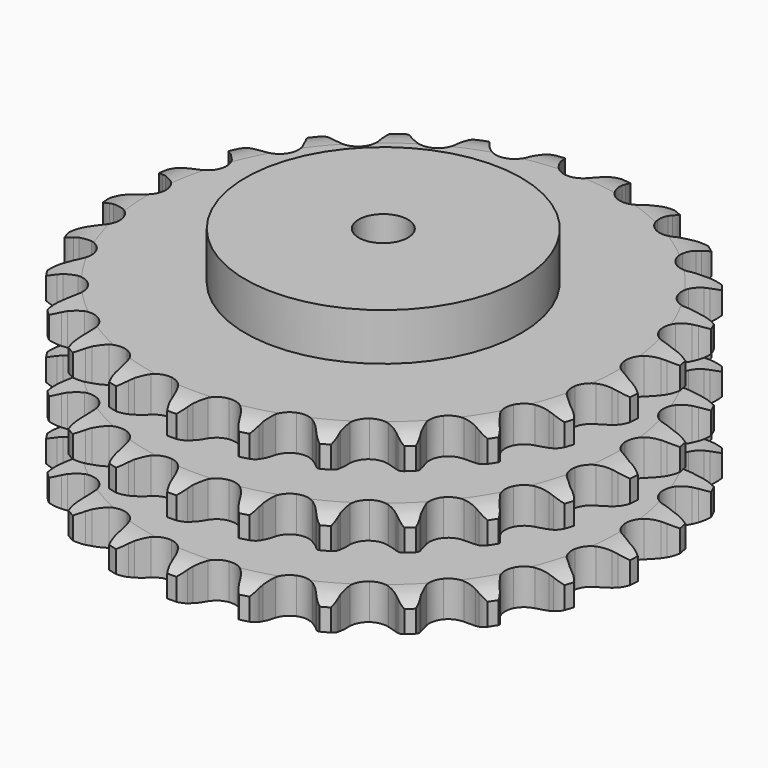
from build123d import *

# Parameters (mm, degrees)
PAD_DEPTH         = 91
SKETCH001_R       = 70
PAD001_DEPTH      = 115
SKETCH002_R       = 12.5
POCKET_DEPTH      = 0.001
POCKET_DEPTH_BACK = 115.001


with BuildPart() as part:
    # Sprocket → Pad (new body)
    with BuildSketch(Plane.XY):
        with BuildLine():
            ThreePointArc((-17.1689, 135.905841), (-14.065751, 132.865377), (-11.918442, 129.088735))
            Line((-11.918442, 129.088735), (-10.992349, 126.754452))
            ThreePointArc((-10.992349, 126.754452), (-9.517818, 123.674111), (-7.6349, 120.825013))
            ThreePointArc((-7.6349, 120.825013), (-4.258235, 118.04645), (0, 117.05161))
            ThreePointArc((0, 117.05161), (4.258235, 118.04645), (7.6349, 120.825013))
            ThreePointArc((7.6349, 120.825013), (9.517818, 123.674111), (10.992349, 126.754452))
            Line((10.992349, 126.754452), (11.918442, 129.088735))
            ThreePointArc((11.918442, 129.088735), (14.065751, 132.865377), (17.1689, 135.905841))
            ThreePointArc((17.1689, 135.905841), (19.418426, 132.189177), (20.55906, 127.997171))
            Line((20.55906, 127.997171), (20.875547, 125.505914))
            ThreePointArc((20.875547, 125.505914), (21.537702, 122.155647), (22.652923, 118.927795))
            ThreePointArc((22.652923, 118.927795), (25.232503, 115.396784), (29.109552, 113.374218))
            ThreePointArc((29.109552, 113.374218), (33.481413, 113.278824), (37.442995, 115.13035))
            Line((37.442995, 115.13035), (42.169554, 120.038542))
            ThreePointArc((42.169554, 120.038542), (42.882643, 121.072536), (43.647065, 122.069179))
            ThreePointArc((43.647065, 122.069179), (46.666125, 125.193157), (50.427916, 127.366377))
            ThreePointArc((50.427916, 127.366377), (51.682472, 123.207044), (51.744762, 118.863074))
            Line((51.744762, 118.863074), (51.431754, 116.371377))
            ThreePointArc((51.431754, 116.371377), (51.23993, 112.961694), (51.51738, 109.557907))
            ThreePointArc((51.51738, 109.557907), (53.137791, 105.496314), (56.390043, 102.573108))
            ThreePointArc((56.390043, 102.573108), (60.600831, 101.393472), (64.898408, 102.201624))
            Line((64.898408, 102.201624), (70.697092, 105.780169))
            ThreePointArc((70.697092, 105.780169), (71.644921, 106.60434), (72.633183, 107.379567))
            ThreePointArc((72.633183, 107.379567), (76.334295, 109.65459), (80.51836, 110.824015))
            ThreePointArc((80.51836, 110.824015), (80.699118, 106.48336), (79.679149, 102.260373))
            Line((79.679149, 102.260373), (78.756316, 99.924799))
            ThreePointArc((78.756316, 99.924799), (77.722564, 96.669942), (77.14481, 93.304093))
            ThreePointArc((77.14481, 93.304093), (77.704236, 88.967122), (80.127341, 85.326951))
            ThreePointArc((80.127341, 85.326951), (83.912476, 83.137196), (88.276016, 82.851195))
            Line((88.276016, 82.851195), (94.782471, 84.875238))
            ThreePointArc((94.782471, 84.875238), (95.905485, 85.437801), (97.05549, 85.942903))
            ThreePointArc((97.05549, 85.942903), (101.2061, 87.226022), (105.54954, 87.318173))
            ThreePointArc((105.54954, 87.318173), (104.645142, 83.068935), (102.607003, 79.232277))
            Line((102.607003, 79.232277), (101.132329, 77.199579))
            ThreePointArc((101.132329, 77.199579), (99.321603, 74.304062), (97.924948, 71.187639))
            ThreePointArc((97.924948, 71.187639), (97.388238, 66.847798), (98.829943, 62.719389))
            ThreePointArc((98.829943, 62.719389), (101.951591, 59.657104), (106.106917, 58.29492))
            Line((106.106917, 58.29492), (112.912319, 58.637285))
            ThreePointArc((112.912319, 58.637285), (114.139955, 58.902891), (115.379444, 59.106129))
            ThreePointArc((115.379444, 59.106129), (119.718754, 59.316723), (123.948653, 58.325809))
            ThreePointArc((123.948653, 58.325809), (122.015926, 54.434983), (119.087681, 51.225725))
            Line((119.087681, 51.225725), (117.153825, 49.623625))
            ThreePointArc((117.153825, 49.623625), (114.679902, 47.269385), (112.552102, 44.598204))
            ThreePointArc((112.552102, 44.598204), (110.952979, 40.528182), (111.322696, 36.170937))
            ThreePointArc((111.322696, 36.170937), (113.584713, 32.428537), (117.27073, 30.07576))
            Line((117.27073, 30.07576), (123.94747, 28.714935))
            ThreePointArc((123.94747, 28.714935), (125.202592, 28.666896), (126.453684, 28.555501))
            ThreePointArc((126.453684, 28.555501), (130.709038, 27.680335), (134.559617, 25.66862))
            ThreePointArc((134.559617, 25.66862), (131.720001, 22.380681), (128.085642, 20.000473))
            Line((128.085642, 20.000473), (125.814116, 18.929636))
            ThreePointArc((125.814116, 18.929636), (122.83244, 17.264599), (120.107193, 15.2065))
            ThreePointArc((120.107193, 15.2065), (117.546136, 11.662031), (116.820635, 7.349731))
            ThreePointArc((116.820635, 7.349731), (118.080889, 3.162365), (121.065992, -0.033169))
            Line((121.065992, -0.033169), (127.194546, -3.01168))
            ThreePointArc((127.194546, -3.01168), (128.39829, -3.370346), (129.582373, -3.789375))
            ThreePointArc((129.582373, -3.789375), (133.486393, -5.695309), (136.715706, -8.601423))
            ThreePointArc((136.715706, -8.601423), (133.147624, -11.079881), (129.035512, -12.481483))
            Line((129.035512, -12.481483), (126.569043, -12.953772))
            ThreePointArc((126.569043, -12.953772), (123.266964, -13.824986), (120.115507, -15.140684))
            ThreePointArc((120.115507, -15.140684), (116.753437, -17.936889), (114.978304, -21.933285))
            ThreePointArc((114.978304, -21.933285), (115.157609, -26.302509), (117.254232, -30.140015))
            Line((117.254232, -30.140015), (122.449522, -34.54906))
            ThreePointArc((122.449522, -34.54906), (123.52625, -35.195816), (124.568925, -35.896151))
            ThreePointArc((124.568925, -35.896151), (127.876307, -38.713097), (130.281444, -42.331007))
            ThreePointArc((130.281444, -42.331007), (126.209093, -43.844254), (121.877605, -44.179181))
            Line((121.877605, -44.179181), (119.371172, -44.023246))
            ThreePointArc((119.371172, -44.023246), (115.956171, -44.045896), (112.576523, -44.536524))
            ThreePointArc((112.576523, -44.536524), (108.62469, -46.408767), (105.911463, -49.838152))
            ThreePointArc((105.911463, -49.838152), (104.998553, -54.114701), (106.074958, -58.353053))
            Line((106.074958, -58.353053), (110.010543, -63.915595))
            ThreePointArc((110.010543, -63.915595), (110.892602, -64.809804), (111.728353, -65.747439))
            ThreePointArc((111.728353, -65.747439), (114.231282, -69.298398), (115.661119, -73.400778))
            ThreePointArc((115.661119, -73.400778), (111.340379, -73.853731), (107.061681, -73.100939))
            Line((107.061681, -73.100939), (104.672771, -72.326578))
            ThreePointArc((104.672771, -72.326578), (101.359426, -71.49924), (97.963941, -71.13397))
            ThreePointArc((97.963941, -71.13397), (93.670655, -71.964613), (90.189815, -74.611504))
            ThreePointArc((90.189815, -74.611504), (88.242052, -78.526666), (88.230604, -82.899554))
            Line((88.230604, -82.899554), (90.659197, -89.266079))
            ThreePointArc((90.659197, -89.266079), (91.291165, -90.351554), (91.867479, -91.467574))
            ThreePointArc((91.867479, -91.467574), (93.408685, -95.529426), (93.773381, -99.858508))
            ThreePointArc((93.773381, -99.858508), (89.47574, -99.222707), (85.518677, -97.429496))
            Line((85.518677, -97.429496), (83.397395, -96.085365))
            ThreePointArc((83.397395, -96.085365), (80.393895, -94.460024), (77.195925, -93.261807))
            ThreePointArc((77.195925, -93.261807), (72.830947, -92.998656), (68.80121, -94.696742))
            ThreePointArc((68.80121, -94.696742), (65.940978, -98.004512), (64.842396, -102.237171))
            Line((64.842396, -102.237171), (65.611401, -109.007646))
            ThreePointArc((65.611401, -109.007646), (65.953567, -110.216183), (66.234232, -111.440465))
            ThreePointArc((66.234232, -111.440465), (66.716877, -115.757989), (65.993517, -120.041761))
            ThreePointArc((65.993517, -120.041761), (61.989012, -118.357155), (58.60222, -115.636199))
            Line((58.60222, -115.636199), (56.881853, -113.806756))
            ThreePointArc((56.881853, -113.806756), (54.376921, -111.485538), (51.577405, -109.529661))
            ThreePointArc((51.577405, -109.529661), (47.415004, -108.189253), (43.089572, -108.831834))
            ThreePointArc((43.089572, -108.831834), (39.49659, -111.324375), (37.379903, -115.15085))
            Line((37.379903, -115.15085), (36.440999, -121.899862))
            ThreePointArc((36.440999, -121.899862), (36.471864, -123.155524), (36.439245, -124.411141))
            ThreePointArc((36.439245, -124.411141), (35.833003, -128.713051), (34.067037, -132.682349))
            ThreePointArc((34.067037, -132.682349), (30.607286, -130.054787), (28.00357, -126.577055))
            Line((28.00357, -126.577055), (26.792216, -124.377249))
            ThreePointArc((26.792216, -124.377249), (24.943244, -121.506005), (22.718087, -118.915365))
            ThreePointArc((22.718087, -118.915365), (19.019801, -116.58192), (14.670457, -116.128623))
            ThreePointArc((14.670457, -116.128623), (10.570485, -117.649317), (7.568693, -120.829178))
            Line((7.568693, -120.829178), (4.980875, -127.132662))
            ThreePointArc((4.980875, -127.132662), (4.6985, -128.356551), (4.354647, -129.564608))
            ThreePointArc((4.354647, -129.564608), (2.697609, -133.5806), (0, -136.986016))
            ThreePointArc((0, -136.986016), (-2.697609, -133.5806), (-4.354647, -129.564608))
            Line((-4.354647, -129.564608), (-4.980875, -127.132662))
            ThreePointArc((-4.980875, -127.132662), (-6.057709, -123.891803), (-7.568693, -120.829178))
            ThreePointArc((-7.568693, -120.829178), (-10.570485, -117.649317), (-14.670457, -116.128623))
            ThreePointArc((-14.670457, -116.128623), (-19.019801, -116.58192), (-22.718087, -118.915365))
            Line((-22.718087, -118.915365), (-26.792216, -124.377249))
            ThreePointArc((-26.792216, -124.377249), (-27.370088, -125.492463), (-28.00357, -126.577055))
            ThreePointArc((-28.00357, -126.577055), (-30.607286, -130.054787), (-34.067037, -132.682349))
            ThreePointArc((-34.067037, -132.682349), (-35.833003, -128.713051), (-36.439245, -124.411141))
            Line((-36.439245, -124.411141), (-36.440999, -121.899862))
            ThreePointArc((-36.440999, -121.899862), (-36.678033, -118.493023), (-37.379903, -115.15085))
            ThreePointArc((-37.379903, -115.15085), (-39.49659, -111.324375), (-43.089572, -108.831834))
            ThreePointArc((-43.089572, -108.831834), (-47.415004, -108.189253), (-51.577405, -109.529661))
            Line((-51.577405, -109.529661), (-56.881853, -113.806756))
            ThreePointArc((-56.881853, -113.806756), (-57.718913, -114.743223), (-58.60222, -115.636199))
            ThreePointArc((-58.60222, -115.636199), (-61.989012, -118.357155), (-65.993517, -120.041761))
            ThreePointArc((-65.993517, -120.041761), (-66.716877, -115.757989), (-66.234232, -111.440465))
            Line((-66.234232, -111.440465), (-65.611401, -109.007646))
            ThreePointArc((-65.611401, -109.007646), (-64.993742, -105.648891), (-64.842396, -102.237171))
            ThreePointArc((-64.842396, -102.237171), (-65.940978, -98.004512), (-68.80121, -94.696742))
            ThreePointArc((-68.80121, -94.696742), (-72.830947, -92.998656), (-77.195925, -93.261807))
            Line((-77.195925, -93.261807), (-83.397395, -96.085365))
            ThreePointArc((-83.397395, -96.085365), (-84.441046, -96.784243), (-85.518677, -97.429496))
            ThreePointArc((-85.518677, -97.429496), (-89.47574, -99.222707), (-93.773381, -99.858508))
            ThreePointArc((-93.773381, -99.858508), (-93.408685, -95.529426), (-91.867479, -91.467574))
            Line((-91.867479, -91.467574), (-90.659197, -89.266079))
            ThreePointArc((-90.659197, -89.266079), (-89.225655, -86.16645), (-88.230604, -82.899554))
            ThreePointArc((-88.230604, -82.899554), (-88.242052, -78.526666), (-90.189815, -74.611504))
            ThreePointArc((-90.189815, -74.611504), (-93.670655, -71.964613), (-97.963941, -71.13397))
            Line((-97.963941, -71.13397), (-104.672771, -72.326578))
            ThreePointArc((-104.672771, -72.326578), (-105.857438, -72.743954), (-107.061681, -73.100939))
            ThreePointArc((-107.061681, -73.100939), (-111.340379, -73.853731), (-115.661119, -73.400778))
            ThreePointArc((-115.661119, -73.400778), (-114.231282, -69.298398), (-111.728353, -65.747439))
            Line((-111.728353, -65.747439), (-110.010543, -63.915595))
            ThreePointArc((-110.010543, -63.915595), (-107.851191, -61.269855), (-106.074958, -58.353053))
            ThreePointArc((-106.074958, -58.353053), (-104.998553, -54.114701), (-105.911463, -49.838152))
            ThreePointArc((-105.911463, -49.838152), (-108.62469, -46.408767), (-112.576523, -44.536524))
            Line((-112.576523, -44.536524), (-119.371172, -44.023246))
            ThreePointArc((-119.371172, -44.023246), (-120.622417, -44.132895), (-121.877605, -44.179181))
            ThreePointArc((-121.877605, -44.179181), (-126.209093, -43.844254), (-130.281444, -42.331007))
            ThreePointArc((-130.281444, -42.331007), (-127.876307, -38.713097), (-124.568925, -35.896151))
            Line((-124.568925, -35.896151), (-122.449522, -34.54906))
            ThreePointArc((-122.449522, -34.54906), (-119.700041, -32.523449), (-117.254232, -30.140015))
            ThreePointArc((-117.254232, -30.140015), (-115.157609, -26.302509), (-114.978304, -21.933285))
            ThreePointArc((-114.978304, -21.933285), (-116.753437, -17.936889), (-120.115507, -15.140684))
            Line((-120.115507, -15.140684), (-126.569043, -12.953772))
            ThreePointArc((-126.569043, -12.953772), (-127.808247, -12.748803), (-129.035512, -12.481483))
            ThreePointArc((-129.035512, -12.481483), (-133.147624, -11.079881), (-136.715706, -8.601423))
            ThreePointArc((-136.715706, -8.601423), (-133.486393, -5.695309), (-129.582373, -3.789375))
            Line((-129.582373, -3.789375), (-127.194546, -3.01168))
            ThreePointArc((-127.194546, -3.01168), (-124.027697, -1.733475), (-121.065992, -0.033169))
            ThreePointArc((-121.065992, -0.033169), (-118.080889, 3.162365), (-116.820635, 7.349731))
            ThreePointArc((-116.820635, 7.349731), (-117.546136, 11.662031), (-120.107193, 15.2065))
            Line((-120.107193, 15.2065), (-125.814116, 18.929636))
            ThreePointArc((-125.814116, 18.929636), (-126.963414, 19.436342), (-128.085642, 20.000473))
            ThreePointArc((-128.085642, 20.000473), (-131.720001, 22.380681), (-134.559617, 25.66862))
            ThreePointArc((-134.559617, 25.66862), (-130.709038, 27.680335), (-126.453684, 28.555501))
            Line((-126.453684, 28.555501), (-123.94747, 28.714935))
            ThreePointArc((-123.94747, 28.714935), (-120.562237, 29.165419), (-117.27073, 30.07576))
            ThreePointArc((-117.27073, 30.07576), (-113.584713, 32.428537), (-111.322696, 36.170937))
            ThreePointArc((-111.322696, 36.170937), (-110.952979, 40.528182), (-112.552102, 44.598204))
            Line((-112.552102, 44.598204), (-117.153825, 49.623625))
            ThreePointArc((-117.153825, 49.623625), (-118.141004, 50.400231), (-119.087681, 51.225725))
            ThreePointArc((-119.087681, 51.225725), (-122.015926, 54.434983), (-123.948653, 58.325809))
            ThreePointArc((-123.948653, 58.325809), (-119.718754, 59.316723), (-115.379444, 59.106129))
            Line((-115.379444, 59.106129), (-112.912319, 58.637285))
            ThreePointArc((-112.912319, 58.637285), (-109.521408, 58.231743), (-106.106917, 58.29492))
            ThreePointArc((-106.106917, 58.29492), (-101.951591, 59.657104), (-98.829943, 62.719389))
            ThreePointArc((-98.829943, 62.719389), (-97.388238, 66.847798), (-97.924948, 71.187639))
            Line((-97.924948, 71.187639), (-101.132329, 77.199579))
            ThreePointArc((-101.132329, 77.199579), (-101.895359, 78.197288), (-102.607003, 79.232277))
            ThreePointArc((-102.607003, 79.232277), (-104.645142, 83.068935), (-105.54954, 87.318173))
            ThreePointArc((-105.54954, 87.318173), (-101.2061, 87.226022), (-97.05549, 85.942903))
            Line((-97.05549, 85.942903), (-94.782471, 84.875238))
            ThreePointArc((-94.782471, 84.875238), (-91.598946, 83.639152), (-88.276016, 82.851195))
            ThreePointArc((-88.276016, 82.851195), (-83.912476, 83.137196), (-80.127341, 85.326951))
            ThreePointArc((-80.127341, 85.326951), (-77.704236, 88.967122), (-77.14481, 93.304093))
            Line((-77.14481, 93.304093), (-78.756316, 99.924799))
            ThreePointArc((-78.756316, 99.924799), (-79.247254, 101.080922), (-79.679149, 102.260373))
            ThreePointArc((-79.679149, 102.260373), (-80.699118, 106.48336), (-80.51836, 110.824015))
            ThreePointArc((-80.51836, 110.824015), (-76.334295, 109.65459), (-72.633183, 107.379567))
            Line((-72.633183, 107.379567), (-70.697092, 105.780169))
            ThreePointArc((-70.697092, 105.780169), (-67.920985, 103.791206), (-64.898408, 102.201624))
            ThreePointArc((-64.898408, 102.201624), (-60.600831, 101.393472), (-56.390043, 102.573108))
            ThreePointArc((-56.390043, 102.573108), (-53.137791, 105.496314), (-51.51738, 109.557907))
            Line((-51.51738, 109.557907), (-51.431754, 116.371377))
            ThreePointArc((-51.431754, 116.371377), (-51.619753, 117.613269), (-51.744762, 118.863074))
            ThreePointArc((-51.744762, 118.863074), (-51.682472, 123.207044), (-50.427916, 127.366377))
            ThreePointArc((-50.427916, 127.366377), (-46.666125, 125.193157), (-43.647065, 122.069179))
            Line((-43.647065, 122.069179), (-42.169554, 120.038542))
            ThreePointArc((-42.169554, 120.038542), (-39.975299, 117.421676), (-37.442995, 115.13035))
            ThreePointArc((-37.442995, 115.13035), (-33.481413, 113.278824), (-29.109552, 113.374218))
            ThreePointArc((-29.109552, 113.374218), (-25.232503, 115.396784), (-22.652923, 118.927795))
            Line((-22.652923, 118.927795), (-20.875547, 125.505914))
            ThreePointArc((-20.875547, 125.505914), (-20.748793, 126.755543), (-20.55906, 127.997171))
            ThreePointArc((-20.55906, 127.997171), (-19.418426, 132.189177), (-17.1689, 135.905841))
        make_face()
    extrude(amount=PAD_DEPTH)

    # Sketch → Groove (revolve, cut)
    with BuildSketch(Plane.XZ):
        with BuildLine():
            ThreePointArc((119.698368, 0), (127.181683, 0.887302), (134.25, 3.5))
            Line((134.25, 3.5), (134.25, 14.7))
            ThreePointArc((134.25, 14.7), (127.181683, 17.312698), (119.698368, 18.2))
            Line((70, 18.2), (119.698368, 18.2))
            Line((70, 18.2), (70, 36.4))
            Line((70, 36.4), (119.698368, 36.4))
            ThreePointArc((119.698368, 36.4), (127.181683, 37.287302), (134.25, 39.9))
            Line((134.25, 51.1), (134.25, 39.9))
            ThreePointArc((134.25, 51.1), (127.181683, 53.712698), (119.698368, 54.6))
            Line((70, 54.6), (119.698368, 54.6))
            Line((70, 72.8), (70, 54.6))
            Line((119.698368, 72.8), (70, 72.8))
            ThreePointArc((119.698368, 72.8), (127.181683, 73.687302), (134.25, 76.3))
            Line((134.25, 76.3), (134.25, 87.5))
            ThreePointArc((134.25, 87.5), (127.181683, 90.112698), (119.698368, 91))
            Line((119.698368, 91), (144.25, 91))
            Line((144.25, 91), (144.25, 0))
            Line((119.698368, 0), (144.25, 0))
        make_face()
    revolve(axis=Axis((0, 0, 0), (0, 0, 1)), mode=Mode.SUBTRACT)

    # Sketch001 → Pad001 (join)
    with BuildSketch(Plane.XY):
        Circle(SKETCH001_R)
    extrude(amount=PAD001_DEPTH)

    # Sketch002 → Pocket (cut, two sides)
    with BuildSketch(Plane.XY) as pocket_sk:
        Circle(SKETCH002_R)
    extrude(amount=-POCKET_DEPTH, mode=Mode.SUBTRACT)
    extrude(pocket_sk.sketch, amount=POCKET_DEPTH_BACK, mode=Mode.SUBTRACT)


solid = part.part
